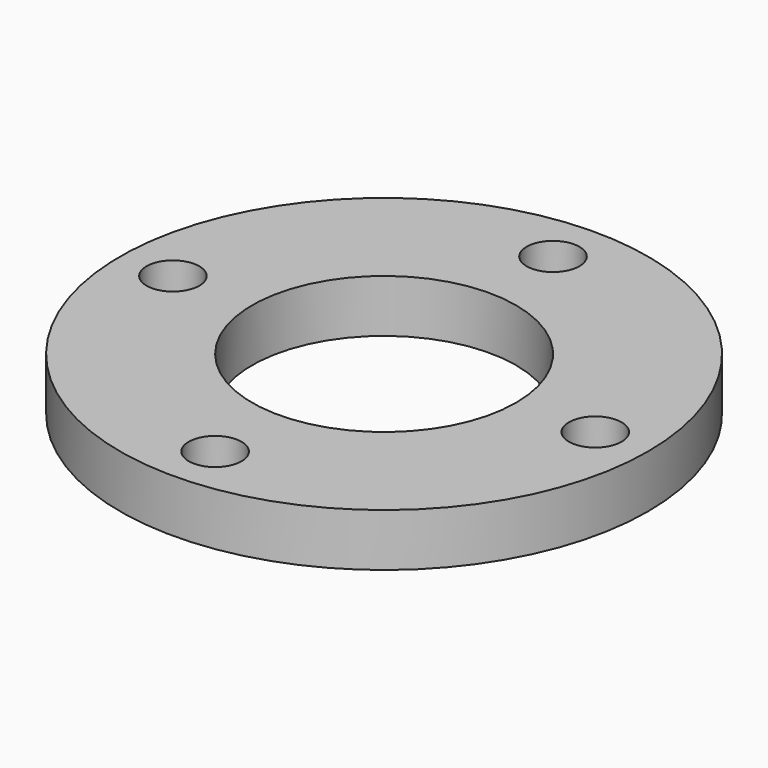
from build123d import *

# Parameters (mm, degrees)
F0_R     = 15.875
F0_R_2   = 1.5875
F0_R_3   = 7.9375
F1_DEPTH = 1.5875


with BuildPart() as f1:
    # F0 (on Top) → F1 (new body, symmetric)
    with BuildSketch(Plane.XY):
        Circle(F0_R)
        with Locations((0, -12.7)):
            Circle(F0_R_2, mode=Mode.SUBTRACT)
        with Locations((-12.7, 0)):
            Circle(F0_R_2, mode=Mode.SUBTRACT)
        Circle(F0_R_3, mode=Mode.SUBTRACT)
        with Locations((12.7, 0)):
            Circle(F0_R_2, mode=Mode.SUBTRACT)
        with Locations((0, 12.7)):
            Circle(F0_R_2, mode=Mode.SUBTRACT)
    extrude(amount=F1_DEPTH, both=True)


solid = f1.part
